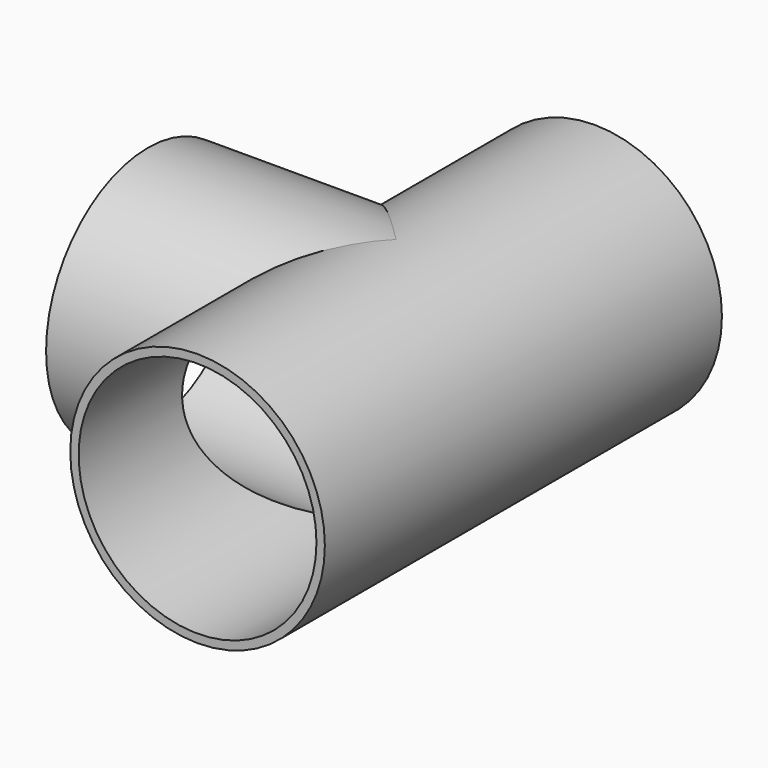
from build123d import *

# Parameters (mm, degrees)
F0_R     = 39.0906
F0_R_2   = 36.5125
F3_R     = 36.5125
F4_DEPTH = 47.498
F5_R     = 39.0906
F5_R_2   = 36.5125
F6_DEPTH = 76.2
F7_R     = 36.5125
F8_DEPTH = 156.718


with BuildPart() as f2:
    # F2: sweep along a path in F1
    with BuildLine(Plane.YZ) as f2_path:
        Line((0, 0), (152.4, 0))
    # F0 (on Front) → F2 (sweep)
    with BuildSketch(Plane.XZ):
        Circle(F0_R)
        Circle(F0_R_2, mode=Mode.SUBTRACT)
    sweep(path=f2_path.line)

    # F3 (on Right) → F4 (cut)
    with BuildSketch(Plane.YZ):
        with Locations((76.2, 0)):
            Circle(F3_R)
    extrude(amount=-F4_DEPTH, mode=Mode.SUBTRACT)

    # F5 (on Right) → F6 (join)
    with BuildSketch(Plane.YZ):
        with Locations((76.2, 0)):
            Circle(F5_R)
        with Locations((76.2, 0)):
            Circle(F5_R_2, mode=Mode.SUBTRACT)
    extrude(amount=-F6_DEPTH)

    # F7 (on Front) → F8 (cut)
    with BuildSketch(Plane.XZ):
        Circle(F7_R)
    extrude(amount=-F8_DEPTH, mode=Mode.SUBTRACT)


solid = f2.part
